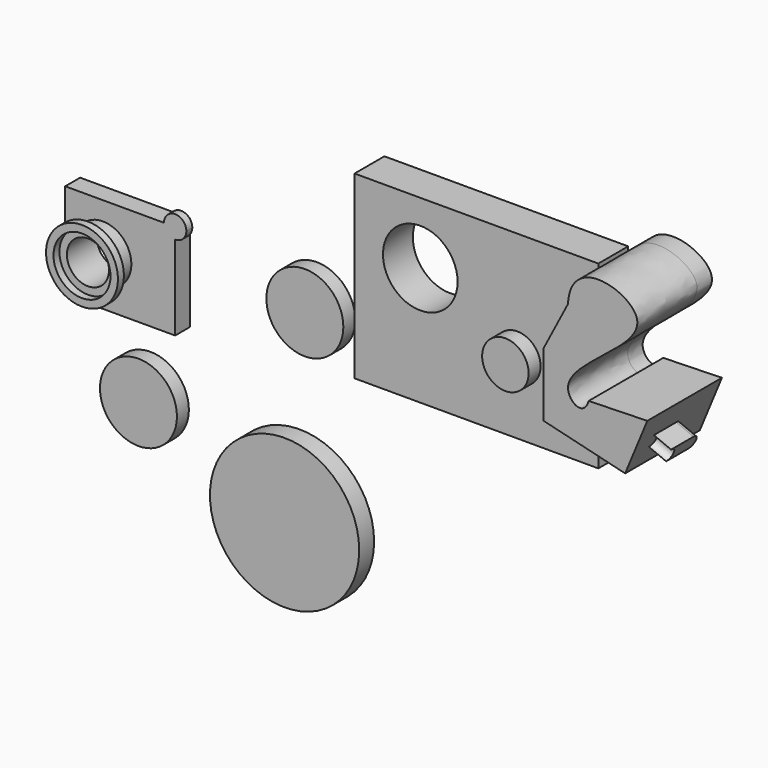
from build123d import *

# Parameters (mm, degrees)
F0_W      = 65.3348518535
F0_H      = 48.3355056494
F0_R      = 10.0022654178
F1_DEPTH  = 10
F2_R      = 6.229097206
F3_DEPTH  = 4
F6_DEPTH  = 5
F7_DEPTH  = 25
F9_DEPTH  = 5
F10_W     = 29.4630527496
F10_H     = 25.643764995
F10_R     = 5.6409210914
F11_DEPTH = 5
F12_R     = 7.6409210914
F12_R_2   = 5.6409210914
F13_DEPTH = 5
F15_R     = 9.6409210914
F15_R_2   = 7.6409210914
F16_DEPTH = 2
F17_DEPTH = 2
F18_R     = 10.316328552
F19_DEPTH = 4
F5_R      = 20
F20_DEPTH = 5


with BuildPart() as f1:
    # F0 (on Front) → F1 (new body)
    with BuildSketch(Plane.XZ):
        with Locations((-20.8907672204, 11.2646305934)):
            Rectangle(F0_W, F0_H)
        with Locations((-35.9444096684, 18.8426524401)):
            Circle(F0_R, mode=Mode.SUBTRACT)
    extrude(amount=-F1_DEPTH)

    # F2 (on Front) → F3 (join)
    with BuildSketch(Plane.XZ):
        with Locations((-9.933354333, 6.1443448067)):
            Circle(F2_R)
    extrude(amount=F3_DEPTH)


with BuildPart() as f6:
    # F4 (on Front) → F6 (new body)
    with BuildSketch(Plane.XZ):
        with BuildLine():
            Line((44.9034683406, 19.2522760481), (29.1856341064, 18.8426524401))
            add(Edge.make_bspline(
                [(29.1856341064, 18.8426524401), (27.8377019492, 14.259685067), (14.3982460229, 23.2522343475), (60.6426843317, 42.322518514), (24.2992617596, 53.0234959853), (23.6557237804, 39.9382263422)],
                knots=[0, 0, 0, 0, 0.1968481782, 0.643073118, 1, 1, 1, 1], degree=3))
            Line((23.6557237804, 39.9382263422), (17.0491114259, 27.2399242967))
            Line((17.0491114259, 27.2399242967), (17.0491114259, 10.2405725047))
            Line((17.0491114259, 10.2405725047), (38.9639362693, 4.915474914))
            Line((38.9639362693, 4.915474914), (44.9034683406, 19.2522760481))
        make_face()
    extrude(amount=F6_DEPTH)

    # F4 (on Front) → F7 (join)
    with BuildSketch(Plane.XZ):
        with BuildLine():
            Line((44.9034683406, 19.2522760481), (29.1856341064, 18.8426524401))
            add(Edge.make_bspline(
                [(29.1856341064, 18.8426524401), (27.8377019492, 14.259685067), (14.3982460229, 23.2522343475), (60.6426843317, 42.322518514), (24.2992617596, 53.0234959853), (23.6557237804, 39.9382263422)],
                knots=[0, 0, 0, 0, 0.1968481782, 0.643073118, 1, 1, 1, 1], degree=3))
            Line((23.6557237804, 39.9382263422), (17.0491114259, 27.2399242967))
            Line((17.0491114259, 27.2399242967), (17.0491114259, 10.2405725047))
            Line((17.0491114259, 10.2405725047), (38.9639362693, 4.915474914))
            Line((38.9639362693, 4.915474914), (44.9034683406, 19.2522760481))
        make_face()
    extrude(amount=F7_DEPTH)

    # F8 (on face) → F9 (join)
    with BuildSketch(Plane(origin=(31.5180058892, 0, -13.0574599629), x_dir=(0, 1, 0), z_dir=(0.9238559597, 0, -0.3827403373))):
        with BuildLine():
            ThreePointArc((-11.943324469, 24.4523696601), (-10.2064982057, 26.1891959235), (-11.943324469, 27.9260221869))
            Line((-11.943324469, 27.9260221869), (-11.943324469, 24.4523696601))
        make_face()
        with BuildLine():
            Line((-11.943324469, 27.9260221869), (-19.4250438362, 27.9260221869))
            ThreePointArc((-19.4250438362, 27.9260221869), (-17.6882175729, 26.1891959235), (-19.4250438362, 24.4523696601))
            Line((-19.4250438362, 24.4523696601), (-11.943324469, 24.4523696601))
            Line((-11.943324469, 24.4523696601), (-11.943324469, 27.9260221869))
        make_face()
    extrude(amount=F9_DEPTH)


with BuildPart() as f11:
    # F10 (on Front) → F11 (new body)
    with BuildSketch(Plane.XZ):
        with Locations((-112.3817116022, -2.287204843)):
            Rectangle(F10_W, F10_H)
        with Locations((-117.0194149017, -2.1053338423)):
            Circle(F10_R, mode=Mode.SUBTRACT)
    extrude(amount=F11_DEPTH)

    # F12 (on face) → F13 (join)
    with BuildSketch(Plane.XZ.offset(5)):
        with Locations((-117.0194149017, -2.1053338423)):
            Circle(F12_R)
        with Locations((-117.0194149017, -2.1053338423)):
            Circle(F12_R_2, mode=Mode.SUBTRACT)
    extrude(amount=F13_DEPTH)

    # F14 (on face) → F17 (join)
    with BuildSketch(Plane.XZ.offset(5)):
        with BuildLine():
            Line((-100.6501852274, 10.5346776545), (-97.6501852274, 10.5346776545))
            Line((-97.6501852274, 10.5346776545), (-97.6501852274, 7.5346776545))
            ThreePointArc((-97.6501852274, 7.5346776545), (-95.5288648838, 8.4133573109), (-94.6501852274, 10.5346776545))
            ThreePointArc((-94.6501852274, 10.5346776545), (-97.6501852274, 13.5346776545), (-100.6501852274, 10.5346776545))
        make_face()
    extrude(amount=-F17_DEPTH)


with BuildPart() as f16:
    # F15 (on face) → F16 (new body)
    with BuildSketch(Plane.XZ.offset(10)):
        with Locations((-117.0194149017, -2.1053338423)):
            Circle(F15_R)
        with Locations((-117.0194149017, -2.1053338423)):
            Circle(F15_R_2, mode=Mode.SUBTRACT)
    extrude(amount=F16_DEPTH)


with BuildPart() as f19:
    # F18 (on face) → F19 (new body)
    with BuildSketch(Plane.XZ.offset(5)):
        with Locations((-104.2852625251, -31.4039550722)):
            Circle(F18_R)
    extrude(amount=F19_DEPTH)


with BuildPart() as f20:
    # F5 (on Front) → F20 (new body)
    with BuildSketch(Plane.XZ):
        with Locations((-68.3209002018, -49.7101247311)):
            Circle(F5_R)
    extrude(amount=F20_DEPTH)


with BuildPart() as f21_1:
    # F21: copy of F19
    add(f19.part.moved(Location((1.8, 53.5, 0))))


solid = Compound([f1.part, f6.part, f11.part, f16.part, f19.part, f20.part, f21_1.part])
